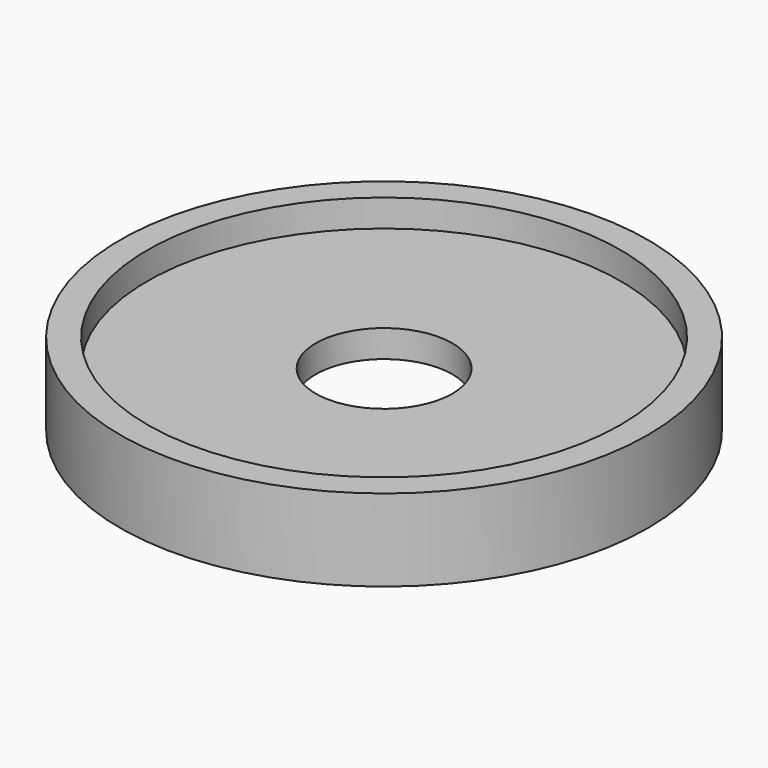
from build123d import *

# Parameters (mm, degrees)
F0_R     = 61.338587
F1_DEPTH = 19.05
F2_R     = 54.988587
F3_DEPTH = 6.35
F4_R     = 54.988587
F5_DEPTH = 6.35
F6_R     = 15.875
F7_DEPTH = 12.701


with BuildPart() as f1:
    # F0 (on Top) → F1 (new body)
    with BuildSketch(Plane.XY):
        Circle(F0_R)
    extrude(amount=F1_DEPTH)

    # F2 (on face) → F3 (cut)
    with BuildSketch(Plane(origin=(0, 0, 0), x_dir=(1, 0, 0), z_dir=(0, 0, -1))):
        Circle(F2_R)
    extrude(amount=-F3_DEPTH, mode=Mode.SUBTRACT)

    # F4 (on face) → F5 (cut)
    with BuildSketch(Plane.XY.offset(19.05)):
        Circle(F4_R)
    extrude(amount=-F5_DEPTH, mode=Mode.SUBTRACT)

    # F6 (on face) → F7 (cut, through all)
    with BuildSketch(Plane.XY.offset(12.7)):
        Circle(F6_R)
    extrude(amount=-F7_DEPTH, mode=Mode.SUBTRACT)


solid = f1.part
